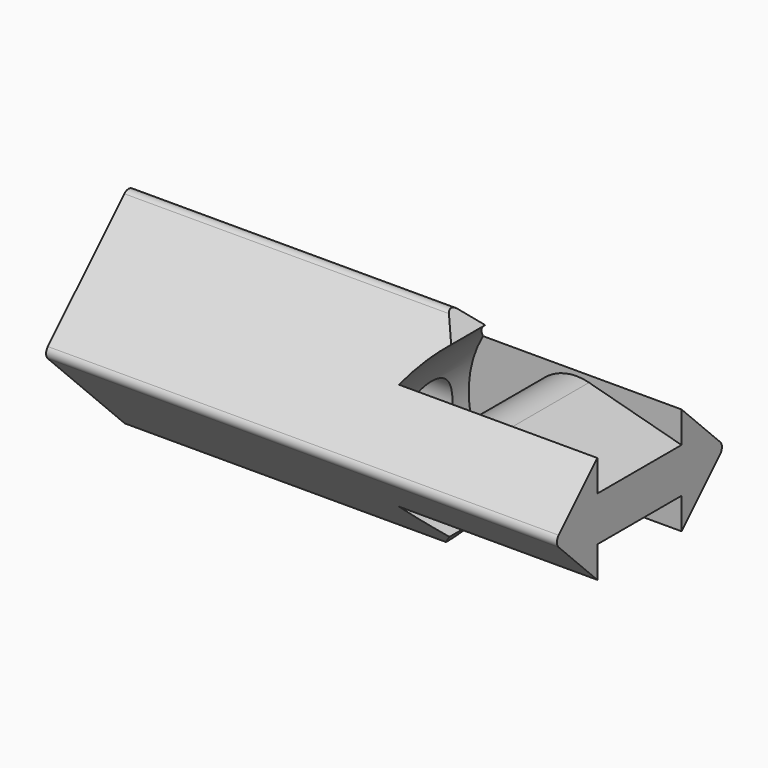
from build123d import *

# Parameters (mm, degrees)
PAD023_DEPTH         = 34
POCKET032_DEPTH      = 6.864961
POCKET032_DEPTH_BACK = 6.864961
POCKET033_DEPTH      = 3.5
SKETCH057_R          = 2.15
POCKET034_DEPTH      = 21
POCKET035_DEPTH      = 3.5
SKETCH069_R          = 3.15
POCKET036_DEPTH      = 4


with BuildPart() as part:
    # Sketch054 → Pad023 (new body)
    with BuildSketch(Plane(origin=(20, 0, 28.35), x_dir=(0, -1, 0), z_dir=(-1, 0, 0))):
        with BuildLine():
            Line((-0.353553, 6.717514), (-6.717514, 0.353553))
            ThreePointArc((-6.717514, 0.353553), (-6.863961, 0), (-6.717514, -0.353553))
            Line((-0.353553, -6.717514), (-6.717514, -0.353553))
            ThreePointArc((-0.353553, -6.717514), (0, -6.863961), (0.353553, -6.717514))
            Line((6.717514, -0.353553), (0.353553, -6.717514))
            ThreePointArc((6.717514, -0.353553), (6.863961, 0), (6.717514, 0.353553))
            Line((0.353553, 6.717514), (6.717514, 0.353553))
            ThreePointArc((0.353553, 6.717514), (0, 6.863961), (-0.353553, 6.717514))
        make_face()
    extrude(amount=-PAD023_DEPTH)

    # Sketch067 → Pocket032 (cut, two sides)
    with BuildSketch(Plane(origin=(47, 0, 28.35), x_dir=(1, 0, 0), z_dir=(0, -1, 0))) as pocket032_sk:
        Polygon((-10.885376, 12.57942), (24.170823, 12.57942), (24.170823, 4.191882), (-3.027771, 4.191882), align=None)
        Polygon((24.170823, -4.191882), (-3.027771, -4.191882), (-11.580444, -12.57942), (24.170823, -12.57942), align=None)
    extrude(amount=-POCKET032_DEPTH, mode=Mode.SUBTRACT)
    extrude(pocket032_sk.sketch, amount=POCKET032_DEPTH_BACK, mode=Mode.SUBTRACT)

    # Sketch056 → Pocket033 (cut, symmetric)
    with BuildSketch(Plane(origin=(47, 0, 28.35), x_dir=(1, 0, 0), z_dir=(0, -1, 0))):
        with BuildLine():
            Line((20.145038, 2), (1.859623, 6.916416))
            ThreePointArc((1.859623, 6.916416), (-7.162053, 0), (1.859623, -6.916416))
            Line((20.145038, -2), (1.859623, -6.916416))
            Line((20.145038, 2), (20.145038, -2))
        make_face()
        with BuildLine():
            ThreePointArc((0.844932, 3.142521), (-3.254128, 0), (0.844932, -3.142521))
            Line((0.844932, -3.142521), (12.532776, 0))
            Line((0.844932, 3.142521), (12.532776, 0))
        make_face(mode=Mode.SUBTRACT)
    extrude(amount=POCKET033_DEPTH, both=True, mode=Mode.SUBTRACT)

    # Sketch057 → Pocket034 (cut)
    with BuildSketch(Plane(origin=(20, 0, 28.35), x_dir=(0, -1, 0), z_dir=(-1, 0, 0))):
        Circle(SKETCH057_R)
    extrude(amount=-POCKET034_DEPTH, mode=Mode.SUBTRACT)

    # Sketch068 → Pocket035 (cut)
    with BuildSketch(Plane(origin=(23, 0, 28.35), x_dir=(0, -0.707107, 0.707107), z_dir=(-1, 0, 0))):
        Polygon((-3.65, -3.65), (3.65, -3.65), (3.65, 3.65), (4.4, 8.65), (-4.4, 8.65), (-3.65, 3.65), align=None)
    extrude(amount=-POCKET035_DEPTH, mode=Mode.SUBTRACT)

    # Sketch069 → Pocket036 (cut)
    with BuildSketch(Plane(origin=(20, 0, 28.35), x_dir=(0, -1, 0), z_dir=(-1, 0, 0))):
        Circle(SKETCH069_R)
    extrude(amount=-POCKET036_DEPTH, mode=Mode.SUBTRACT)


solid = part.part
